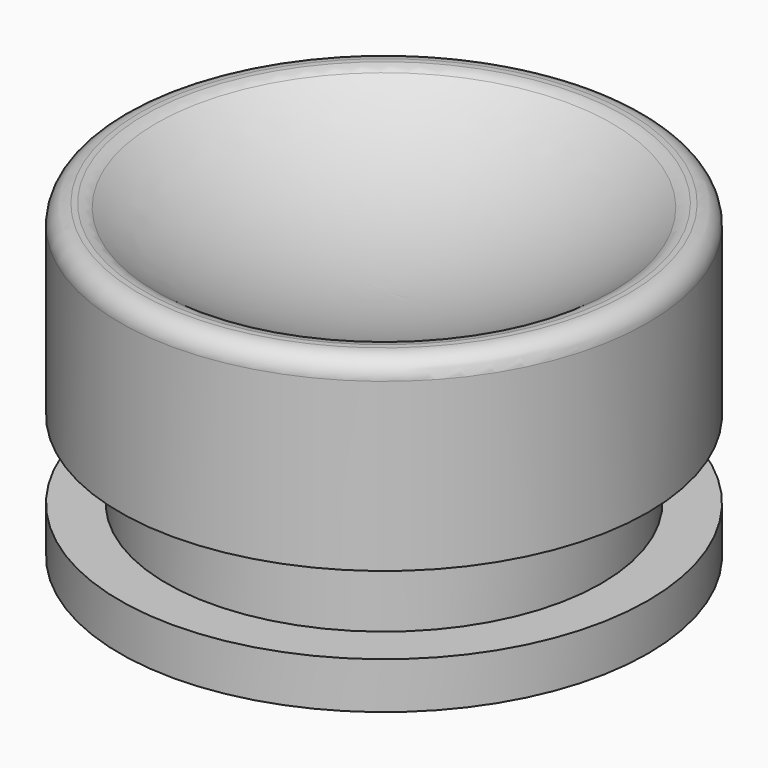
from build123d import *


with BuildPart() as f1:
    # F0 (on Front) → F1 (revolve)
    with BuildSketch(Plane.XZ):
        with BuildLine():
            ThreePointArc((14.677176, 19.761905), (7.715167, 16.220257), (0, 15))
            Line((0, 15), (0, 13))
            Line((0, 13), (2.6, 10.4))
            Line((2.6, 10.4), (2.6, 6.4))
            Line((2.6, 6.4), (9, 0))
            Line((9, 0), (17, 0))
            Line((17, 0), (17, 3))
            Line((17, 3), (14, 3))
            Line((14, 3), (14, 8))
            Line((14, 8), (17, 8))
            Line((17, 8), (17, 18.75))
            ThreePointArc((17, 18.75), (16.633883, 19.633883), (15.75, 20))
            Line((15.75, 20), (15.411035, 20))
            ThreePointArc((15.411035, 20), (15.025277, 19.938987), (14.677176, 19.761905))
        make_face()
    revolve(axis=Axis((0, 0, 7.5), (0, 0, 1)))


solid = f1.part
